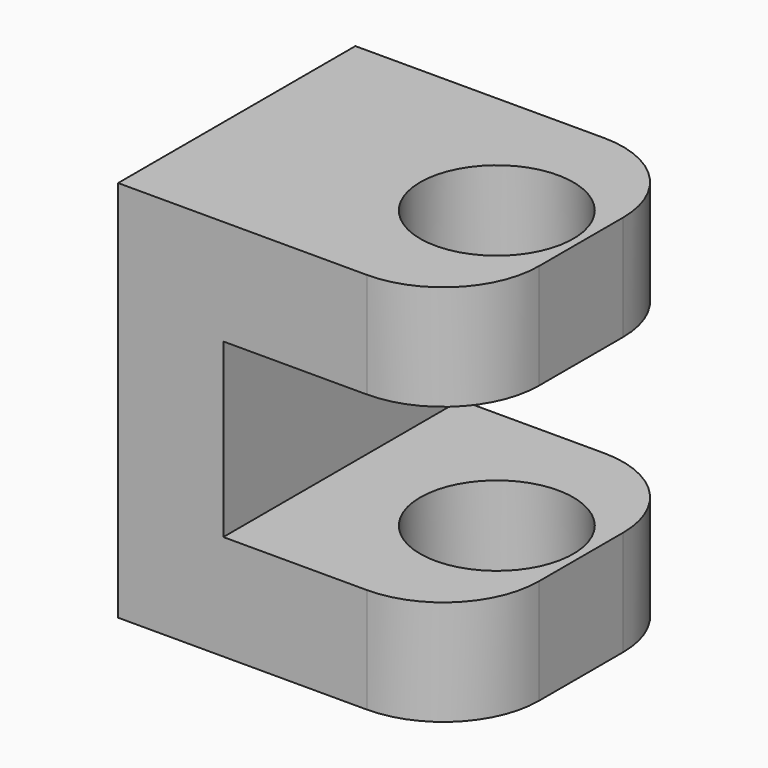
from build123d import *

# Parameters (mm, degrees)
F0_W     = 25
F0_H     = 11
F0_W_2   = 11
F0_H_2   = 18
F1_DEPTH = 31
F3_D     = 16
F4_R     = 10


with BuildPart() as f1:
    # F0 (on Front) → F1 (new body)
    with BuildSketch(Plane.XZ):
        with Locations((5.5, 34.5)):
            Rectangle(F0_W, F0_H)
        with Locations((-12.5, 34.5)):
            Rectangle(F0_W_2, F0_H)
        with Locations((-12.5, 20)):
            Rectangle(F0_W_2, F0_H_2)
        with Locations((5.5, 5.5)):
            Rectangle(F0_W, F0_H)
        with Locations((-12.5, 5.5)):
            Rectangle(F0_W_2, F0_H)
    extrude(amount=F1_DEPTH)

    # F3 (through all)
    with Locations(Plane(origin=(0, 0, 0), x_dir=(1, 0, 0), z_dir=(0, 0, -1))):
        with Locations((9.1674635187, 15.4794855043)):
            Hole(F3_D / 2)

    # F4
    f4_edges = [f1.edges().sort_by_distance(p)[0] for p in [
        (18, 0, 5.5),
        (18, 0, 34.5),
        (18, -31, 5.5),
        (18, -31, 34.5),
    ]]
    fillet(f4_edges, radius=F4_R)


solid = f1.part
